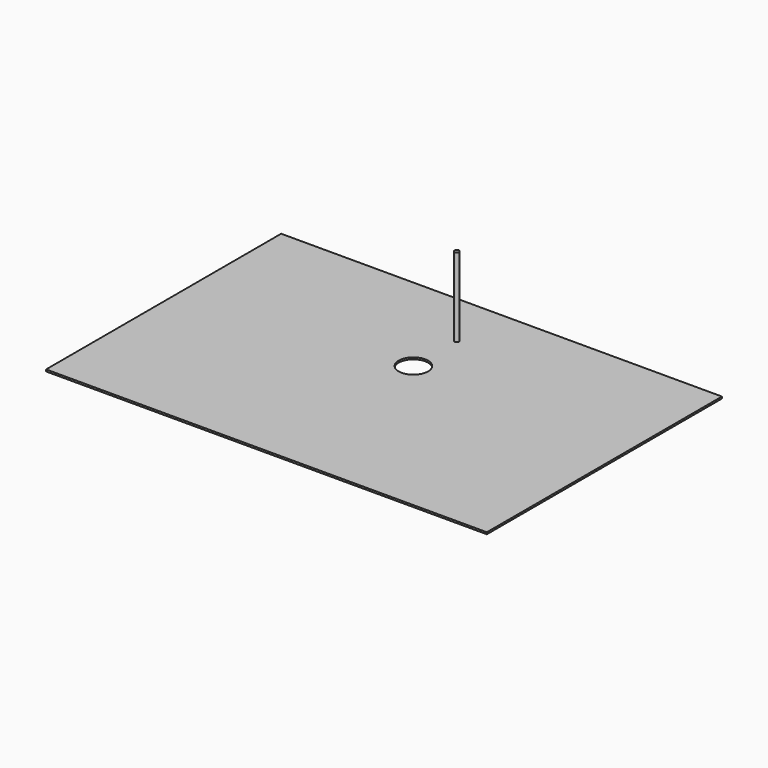
from build123d import *

# Parameters (mm, degrees)
F0_W     = 6000
F0_H     = 4000
F0_R     = 200
F1_DEPTH = 25
F2_R     = 30
F3_DEPTH = 1100


with BuildPart() as f1:
    # F0 (on Top) → F1 (new body)
    with BuildSketch(Plane.XY):
        with Locations((0, -1300)):
            Rectangle(F0_W, F0_H)
        with Locations((0, -800)):
            Circle(F0_R, mode=Mode.SUBTRACT)
    extrude(amount=F1_DEPTH)


with BuildPart() as f3:
    # F2 (on face) → F3 (new body)
    with BuildSketch(Plane.XY):
        with Locations((0, -60)):
            Circle(F2_R)
    extrude(amount=F3_DEPTH)


solid = Compound([f1.part, f3.part])
